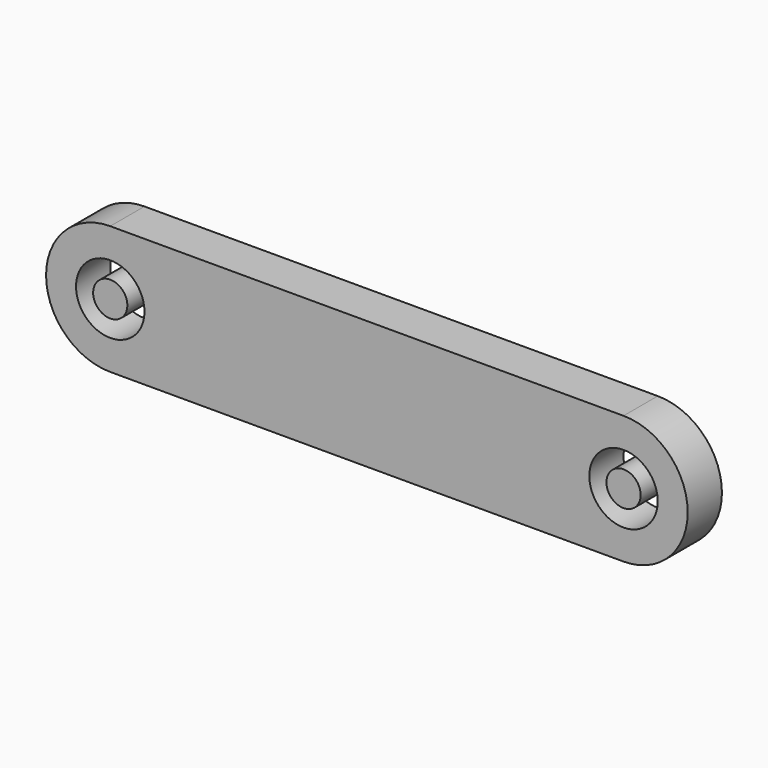
from build123d import *

# Parameters (mm, degrees)
F0_R     = 4
F1_DEPTH = 5
F2_R     = 2
F3_DEPTH = 5


with BuildPart() as f1:
    # F0 (on Front) → F1 (new body)
    with BuildSketch(Plane.XZ):
        with BuildLine():
            Line((60, 7.5), (0, 7.5))
            ThreePointArc((0, 7.5), (-7.5, 0), (0, -7.5))
            Line((0, -7.5), (60, -7.5))
            ThreePointArc((60, -7.5), (67.5, 0), (60, 7.5))
        make_face()
        Circle(F0_R, mode=Mode.SUBTRACT)
        with BuildLine():
            ThreePointArc((64, 0), (60, -4), (56, 0))
            ThreePointArc((56, 0), (60, 4), (64, 0))
        make_face(mode=Mode.SUBTRACT)
    extrude(amount=-F1_DEPTH)


with BuildPart() as f3:
    # F2 (on face) → F3 (new body)
    with BuildSketch(Plane.XZ):
        Circle(F2_R)
        with Locations((60, 0)):
            Circle(F2_R)
    extrude(amount=-F3_DEPTH)


solid = Compound([f1.part, f3.part])
